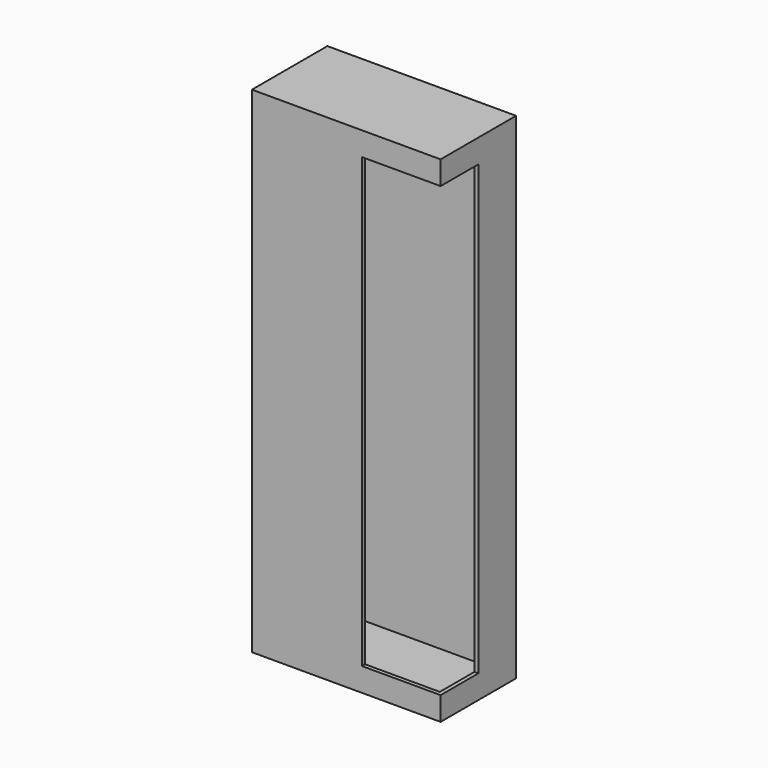
from build123d import *

# Parameters (mm, degrees)
F0_W     = 120
F0_H     = 315
F1_DEPTH = 60
F2_W     = 100
F2_H     = 285
F3_DEPTH = 30
F4_T     = -2.5


with BuildPart() as f1:
    # F0 (on Front) → F1 (new body)
    with BuildSketch(Plane.XZ):
        with Locations((60, 157.5)):
            Rectangle(F0_W, F0_H)
    extrude(amount=F1_DEPTH)

    # F2 (on face) → F3 (cut)
    with BuildSketch(Plane.XZ.offset(60)):
        with Locations((120, 157.5)):
            Rectangle(F2_W, F2_H)
    extrude(amount=-F3_DEPTH, mode=Mode.SUBTRACT)

    # F4
    f4_openings = [f1.faces().sort_by_distance(p)[0] for p in [
        (95, -45, 300),
        (70, -45, 157.5),
        (95, -30, 157.5),
        (95, -45, 15),
    ]]
    offset(amount=F4_T, openings=f4_openings)


solid = f1.part
